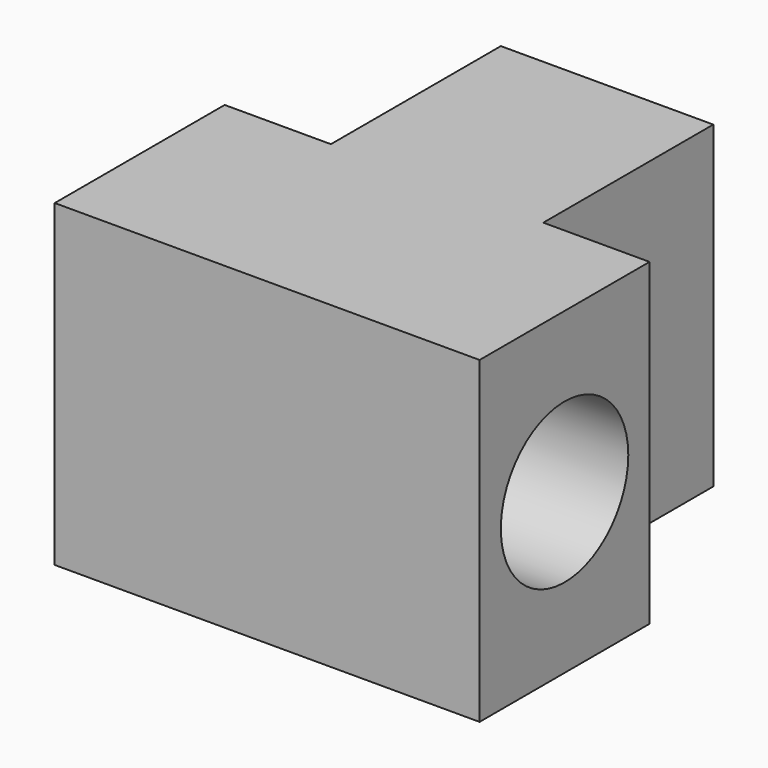
from build123d import *

# Parameters (mm, degrees)
F1_DEPTH = 38.1
F2_R     = 19.05
F3_DEPTH = 101.601


with BuildPart() as f1:
    # F0 (on Top) → F1 (new body, symmetric)
    with BuildSketch(Plane.XY):
        Polygon((-50.8, -25.4), (50.8, -25.4), (50.8, 25.4), (25.4, 25.4), (0, 25.4), (-25.4, 25.4), (-50.8, 25.4), align=None)
        Polygon((0, 25.4), (25.4, 25.4), (25.4, 76.2), (-25.4, 76.2), (-25.4, 25.4), align=None)
    extrude(amount=F1_DEPTH, both=True)

    # F2 (on face) → F3 (cut, through all)
    with BuildSketch(Plane.YZ.offset(50.8)):
        Circle(F2_R)
    extrude(amount=-F3_DEPTH, mode=Mode.SUBTRACT)


solid = f1.part
